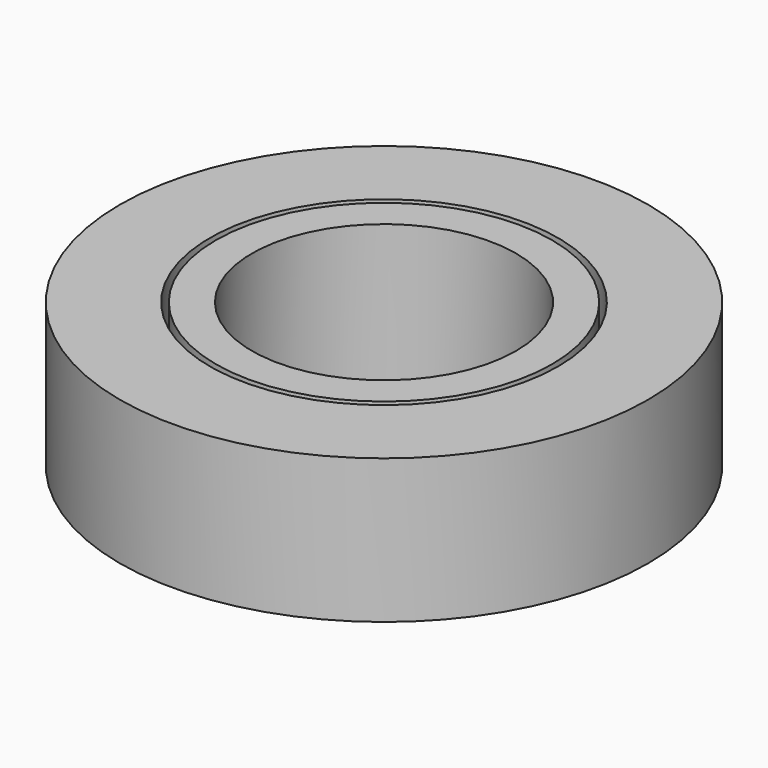
from build123d import *

# Parameters (mm, degrees)
F1_R          = 14
F1_R_2        = 11
F2_DEPTH      = 12
F1_R_3        = 22
F1_R_4        = 14.5
F4_R          = 18.25
F4_R_2        = 12.5
F5_DEPTH      = 1
F5_DEPTH_BACK = 1


with BuildPart() as f2:
    # F1 (on Top) → F2 (new body)
    with BuildSketch(Plane.XY):
        Circle(F1_R)
        Circle(F1_R_2, mode=Mode.SUBTRACT)
    extrude(amount=F2_DEPTH)



with BuildPart() as f2b:
    # F1 (on Top) → F2, piece 2 (new body)
    with BuildSketch(Plane.XY):
        Circle(F1_R_3)
        Circle(F1_R_4, mode=Mode.SUBTRACT)
    extrude(amount=F2_DEPTH)


with BuildPart() as f2_1:
    add(f2.part)

    add(f2b.part)  # F5 merges F2b
    # F4 (on mid) → F5 (join, two sides)
    with BuildSketch(Plane.XY.offset(6)) as f5_sk:
        Circle(F4_R)
        Circle(F4_R_2, mode=Mode.SUBTRACT)
    extrude(amount=F5_DEPTH)
    extrude(f5_sk.sketch, amount=-F5_DEPTH_BACK)


solid = f2_1.part
